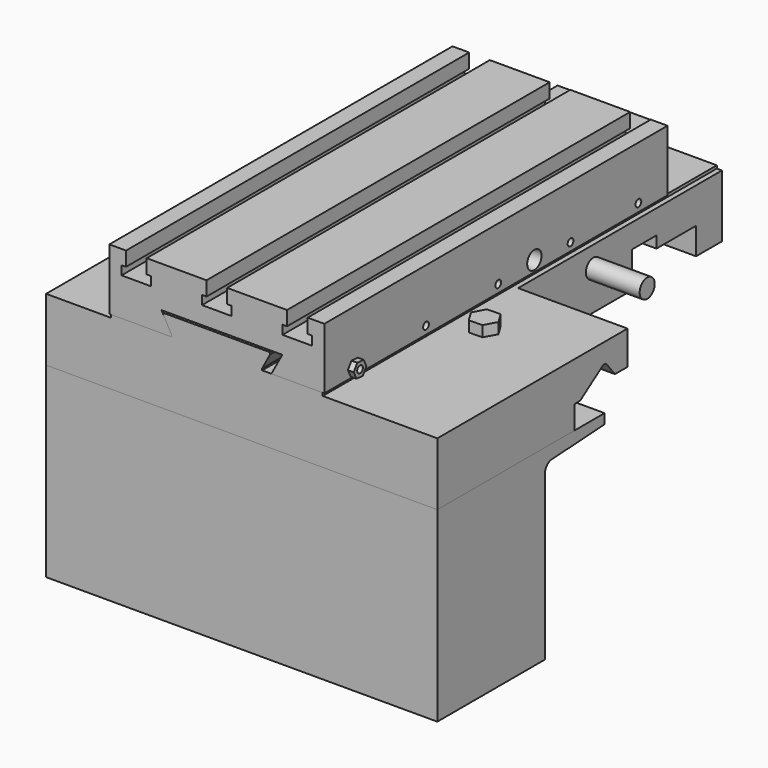
from build123d import *

# Parameters (mm, degrees)
F1_DEPTH  = 218
F3_DEPTH  = 274.465388
F4_W      = 61
F4_H      = 142
F5_DEPTH  = 34.8
F7_DEPTH  = 239
F8_R      = 5.25
F9_DEPTH  = 30
F10_R     = 2
F10_R_2   = 5
F11_DEPTH = 10
F12_DEPTH = 3.25
F13_R     = 1.948588
F14_DEPTH = 6
F15_DEPTH = 10
F17_DEPTH = 218
F18_W     = 57.150004
F18_H     = 62.300008
F19_DEPTH = 19.05


with BuildPart() as f1:
    # F0 (on Right) → F1 (new body)
    with BuildSketch(Plane.YZ):
        Polygon((34.047622, 18.397166), (37.047622, 18.397166), (37.047622, 3.397166), (55.047622, 3.397166), (55.047622, 38.197166), (-219.417766, 38.197166), (-219.417766, 16.208281), (-219.417766, 3.208281), (-123.917766, 3.208281), (-123.917766, 16.208281), (-119.917766, 16.208281), (-105.907621, 25.837187), (-103.871255, 27.236743), (-102.044701, 27.241364), (-100.907621, 25.837187), (-96.502378, 20.397166), (-95.692594, 19.397166), (-61.502378, 19.397166), (-61.502378, 4.897166), (-7.502378, 4.897166), (-7.502378, 19.052115), (-7.502378, 24.897166), (9.447622, 24.897166), (9.447622, 18.397166), (11.297622, 18.397166), align=None)
    extrude(amount=F1_DEPTH)

    # F2 (on face) → F3 (join, through all)
    with BuildSketch(Plane.XZ.offset(219.417766)):
        Polygon((69.9, 39.797166), (36.15, 39.797166), (36.15, 38.197166), (154.15, 38.197166), (154.15, 39.797166), (120.4, 39.797166), align=None)
        Polygon((69.9, 40.797166), (69.9, 39.797166), (120.4, 39.797166), (120.4, 40.797166), (124.87, 49.097166), (124.87, 50.097166), (95.15, 50.097166), (65.43, 50.097166), (65.43, 49.097166), align=None)
    extrude(amount=-F3_DEPTH)

    # F4 (on face) → F5 (cut, through all)
    with BuildSketch(Plane.XY.offset(38.197166)):
        with Locations((187.5, -15.952378)):
            Rectangle(F4_W, F4_H)
    extrude(amount=-F5_DEPTH, mode=Mode.SUBTRACT)

    # F8 (on face) → F9 (join)
    with BuildSketch(Plane.YZ.offset(157)):
        with Locations((-34.502378, 26.597166)):
            Circle(F8_R)
    extrude(amount=F9_DEPTH)

    # F13 (on face) → F15 (cut)
    with BuildSketch(Plane.XY.offset(38.197166)):
        with Locations((170, -126.417766)):
            Circle(F13_R)
    extrude(amount=-F15_DEPTH, mode=Mode.SUBTRACT)


with BuildPart() as f7:
    # F6 (on face) → F7 (new body)
    with BuildSketch(Plane.XZ.offset(219.417766)):
        Polygon((35.25, 73.907166), (35.25, 39.797166), (36.15, 39.797166), (69.9, 39.797166), (69.9, 40.797166), (65.43, 49.097166), (64.352892, 51.097166), (131.626103, 51.097166), (125.540441, 39.797166), (154.15, 39.797166), (155.05, 39.797166), (155.05, 73.907166), (145.75, 73.907166), (145.75, 65.907166), (148.25, 65.907166), (148.25, 60.907166), (131.75, 60.907166), (131.75, 65.907166), (134.25, 65.907166), (134.25, 73.907166), (100.9, 73.907166), (100.9, 65.907166), (103.4, 65.907166), (103.4, 60.907166), (86.9, 60.907166), (86.9, 65.907166), (89.4, 65.907166), (89.4, 73.907166), (56.05, 73.907166), (56.05, 65.907166), (58.55, 65.907166), (58.55, 60.907166), (42.05, 60.907166), (42.05, 65.907166), (44.55, 65.907166), (44.55, 73.907166), align=None)
    extrude(amount=-F7_DEPTH)

    # F10 (on face) → F11 (cut)
    with BuildSketch(Plane.YZ.offset(155.05)):
        with Locations((-198.597766, 44.197166)):
            Circle(F10_R)
        with Locations((-148.597766, 44.197166)):
            Circle(F10_R)
        with Locations((-98.347766, 44.197166)):
            Circle(F10_R)
        with Locations((-47.947766, 44.197166)):
            Circle(F10_R)
        with Locations((-0.667766, 44.197166)):
            Circle(F10_R)
        with Locations((-73.147766, 45.797166)):
            Circle(F10_R_2)
    extrude(amount=-F11_DEPTH, mode=Mode.SUBTRACT)


with BuildPart() as f12:
    # F10 (on face) → F12 (new body)
    with BuildSketch(Plane.YZ.offset(155.05)):
        Polygon((-194.186882, 43.876795), (-196.114875, 47.856917), (-200.525758, 48.177289), (-203.00865, 44.517537), (-201.080658, 40.537414), (-196.669774, 40.217043), align=None)
        with Locations((-198.597766, 44.197166)):
            Circle(F10_R, mode=Mode.SUBTRACT)
    extrude(amount=F12_DEPTH)


with BuildPart() as f14:
    # F13 (on face) → F14 (new body)
    with BuildSketch(Plane.XY.offset(38.197166)):
        Polygon((177.502694, -126.210592), (173.571929, -119.816656), (166.069235, -120.02383), (162.497306, -126.62494), (166.428071, -133.018876), (173.930765, -132.811702), align=None)
        with Locations((170, -126.417766)):
            Circle(F13_R, mode=Mode.SUBTRACT)
        with Locations((170, -126.417766)):
            Circle(F13_R)
    extrude(amount=F14_DEPTH)


with BuildPart() as f17:
    # F16 (on face) → F17 (new body, through all)
    with BuildSketch(Plane(origin=(0, 0, 0), x_dir=(0, -1, 0), z_dir=(-1, 0, 0))):
        with BuildLine():
            Line((219.417766, -100.791719), (219.417766, 3.208281))
            Line((219.417766, 3.208281), (123.917766, 3.208281))
            Line((123.917766, 3.208281), (102.917766, 3.208281))
            Line((102.917766, 3.208281), (102.917766, -2.291719))
            Line((102.917766, -2.291719), (139.718426, -4.508626))
            ThreePointArc((139.718426, -4.508626), (143.058048, -6.071991), (144.417766, -9.499578))
            Line((144.417766, -9.499578), (144.417766, -100.791719))
            Line((144.417766, -100.791719), (219.417766, -100.791719))
        make_face()
    extrude(amount=-F17_DEPTH)

    # F18 (on face) → F19 (cut)
    with BuildSketch(Plane(origin=(0, 0, -100.791719), x_dir=(1, 0, 0), z_dir=(0, 0, -1))):
        with Locations((183.075002, 181.917766)):
            Rectangle(F18_W, F18_H)
    extrude(amount=-F19_DEPTH, mode=Mode.SUBTRACT)


solid = Compound([f1.part, f7.part, f12.part, f14.part, f17.part])
